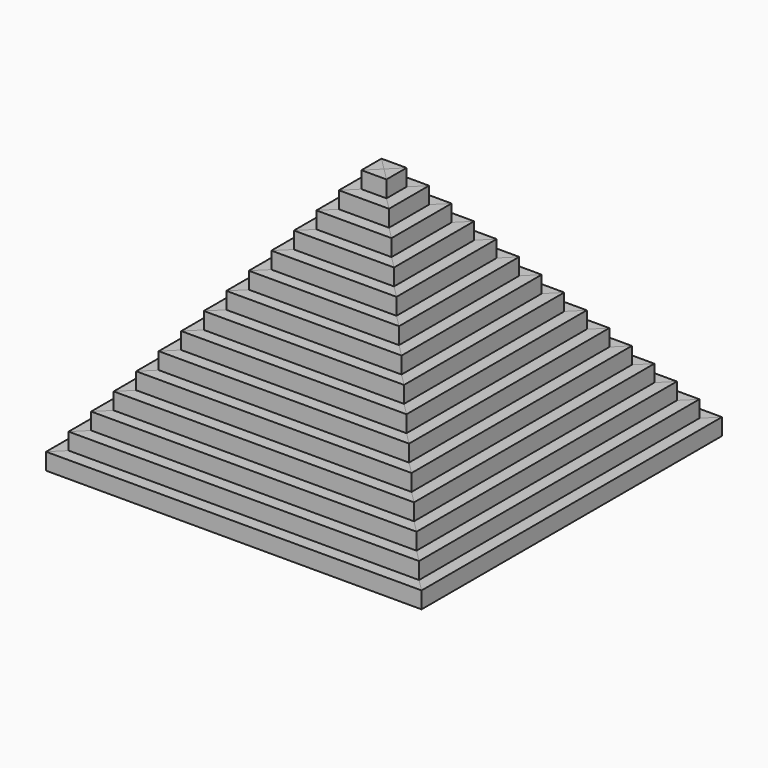
from build123d import *

# Parameters (mm, degrees)
F1_DEPTH      = 150
F1_DEPTH_BACK = 150
F4_W          = 136.078998
F4_H          = 238.502634
F5_DEPTH      = 212.133034
F7_W          = 211.056753
F7_H          = 232.124664
F8_DEPTH      = 212.133034
F9_COUNT      = 4


with BuildPart() as f1:
    # F0 (on Front) → F1 (new body, two sides)
    with BuildSketch(Plane.XZ) as f1_sk:
        Polygon((144.999996, 0), (150, 0), (150, 13.33333), (140, 13.33333), (140, 26.66666), (130, 26.66666), (130, 39.99999), (120, 39.99999), (120, 53.33332), (110, 53.33332), (110, 66.66665), (100, 66.66665), (100, 79.99998), (90, 79.99998), (90, 93.33331), (80, 93.33331), (80, 106.66664), (70, 106.66664), (70, 119.99997), (60, 119.99997), (60, 133.3333), (50, 133.3333), (50, 146.66663), (40, 146.66663), (40, 159.99996), (30, 159.99996), (30, 173.33329), (20, 173.33329), (20, 186.66662), (10, 186.66662), (10, 199.99995), (0, 199.99995), (0, 194.999946), (4.999996, 194.999946), (4.999996, 181.666616), (14.999996, 181.666616), (14.999996, 168.333286), (24.999996, 168.333286), (24.999996, 154.999956), (34.999996, 154.999956), (34.999996, 141.666626), (44.999996, 141.666626), (44.999996, 128.333296), (54.999996, 128.333296), (54.999996, 114.999966), (64.999996, 114.999966), (64.999996, 101.666636), (74.999996, 101.666636), (74.999996, 88.333306), (84.999996, 88.333306), (84.999996, 74.999976), (94.999996, 74.999976), (94.999996, 61.666646), (104.999996, 61.666646), (104.999996, 48.333316), (114.999996, 48.333316), (114.999996, 34.999986), (124.999996, 34.999986), (124.999996, 21.666656), (134.999996, 21.666656), (134.999996, 8.333326), (144.999996, 8.333326), align=None)
    extrude(amount=F1_DEPTH)
    extrude(f1_sk.sketch, amount=-F1_DEPTH_BACK)

    # F4 (on face) → F5 (cut, through all)
    with BuildSketch(Plane(origin=(0, 0, 0), x_dir=(-0.707107, -0.707107, 0), z_dir=(-0.707107, 0.707107, 0))):
        with Locations((68.039499, 107.655638)):
            Rectangle(F4_W, F4_H)
    extrude(amount=-F5_DEPTH, mode=Mode.SUBTRACT)

    # F7 (on face) → F8 (cut, through all)
    with BuildSketch(Plane(origin=(0, 0, 0), x_dir=(0.707107, -0.707107, 0), z_dir=(-0.707107, -0.707107, 0))):
        with Locations((-105.528376, 102.337744)):
            Rectangle(F7_W, F7_H)
    extrude(amount=-F8_DEPTH, mode=Mode.SUBTRACT)


with BuildPart() as f9_1:
    # F9: instance of F1
    add(f1.part.rotate(Axis((0, 0, 100), (0, 0, 1)), 1 * 360 / F9_COUNT))


with BuildPart() as f9_2:
    # F9: instance of F1
    add(f1.part.rotate(Axis((0, 0, 100), (0, 0, 1)), 2 * 360 / F9_COUNT))


with BuildPart() as f9_3:
    # F9: instance of F1
    add(f1.part.rotate(Axis((0, 0, 100), (0, 0, 1)), 3 * 360 / F9_COUNT))


solid = Compound([f1.part, f9_1.part, f9_2.part, f9_3.part])
